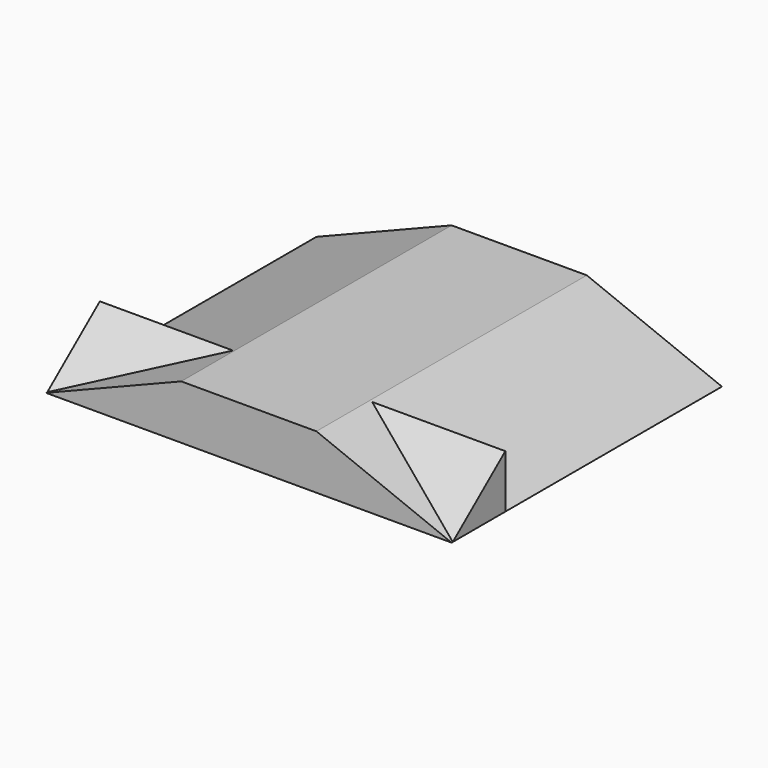
from build123d import *

# Parameters (mm, degrees)
F1_DEPTH = 100
F2_DEPTH = 25
F4_DEPTH = 75
F5_DEPTH = 75


with BuildPart() as f1:
    # F0 (on Front) → F1 (new body)
    with BuildSketch(Plane.XZ):
        Polygon((75, 0), (25, 20), (-25, 20), (-75, 0), align=None)
    extrude(amount=F1_DEPTH)

    # F1_face (on face) → F2 (join)
    with BuildSketch(Plane(origin=(0, -100, 8.333333), x_dir=(1, 0, 0), z_dir=(0, -1, 0))):
        Polygon((75, -8.333333), (25, 11.666667), (-25, 11.666667), (-75, -8.333333), align=None)
    extrude(amount=F2_DEPTH)

    # F3 (on Right) → F4 (join)
    with BuildSketch(Plane.YZ):
        Polygon((-124.444783, 0), (-100.156426, 0), (-100.156426, 19.705653), align=None)
    extrude(amount=F4_DEPTH)

    # F3 (on Right) → F5 (join)
    with BuildSketch(Plane.YZ):
        Polygon((-124.444783, 0), (-100.156426, 0), (-100.156426, 19.705653), align=None)
    extrude(amount=-F5_DEPTH)


solid = f1.part
